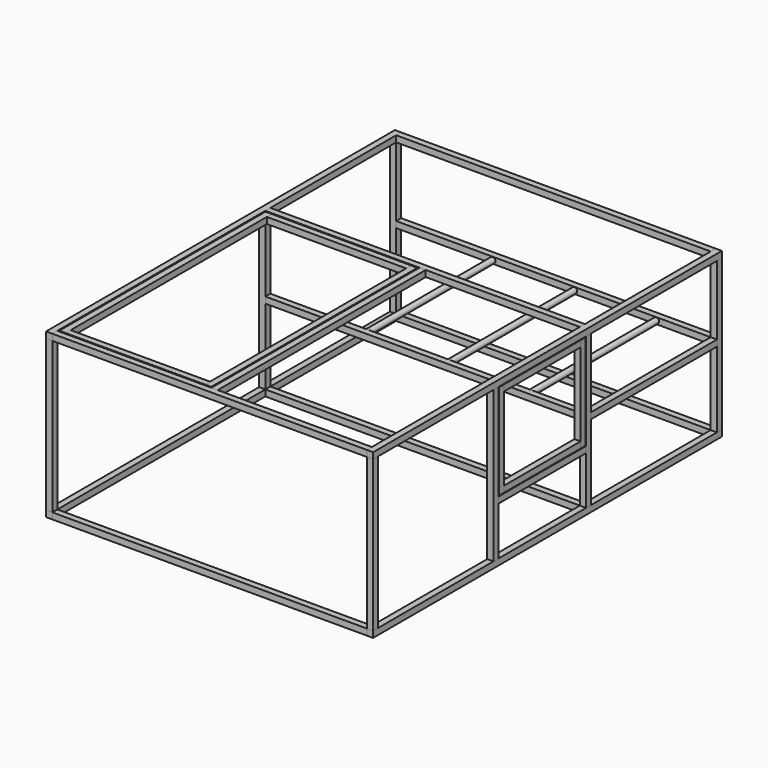
from build123d import *

# Parameters (mm, degrees)
F2_W      = 34.925
F2_H      = 34.925
F3_DEPTH  = 1219.2
F4_W      = 34.925
F4_H      = 34.925
F5_DEPTH  = 844.55
F6_W      = 34.925
F6_H      = 34.925
F7_DEPTH  = 1758.95
F8_R      = 15.875
F9_DEPTH  = 879.475
F10_W     = 34.925
F10_H     = 34.925
F11_DEPTH = 879.475
F12_W     = 34.925
F12_H     = 34.925
F13_DEPTH = 1454.15
F16_W     = 34.925
F16_H     = 34.925
F17_DEPTH = 1441.45
F18_W     = 34.925
F18_H     = 34.925
F19_DEPTH = 779.4625
F20_W     = 34.925
F20_H     = 34.925
F21_DEPTH = 844.55
F22_W     = 34.925
F22_H     = 34.925
F23_DEPTH = 612.775
F26_W     = 34.925
F26_H     = 34.925
F27_DEPTH = 533.4
F28_W     = 34.925
F28_H     = 34.925
F29_DEPTH = 536.575


with BuildPart() as f3:
    # F2 (on Front) → F3 (new body, symmetric)
    with BuildSketch(Plane.XZ):
        with Locations((896.9375, 17.4625)):
            Rectangle(F2_W, F2_H)
        with Locations((896.9375, 896.9375)):
            Rectangle(F2_W, F2_H)
        with Locations((-896.9375, 896.9375)):
            Rectangle(F2_W, F2_H)
        with Locations((-896.9375, 17.4625)):
            Rectangle(F2_W, F2_H)
    extrude(amount=F3_DEPTH, both=True)


with BuildPart() as f5:
    # F4 (on face) → F5 (new body, through all)
    with BuildSketch(Plane.XY.offset(34.925)):
        with Locations((-896.9375, -1201.7375)):
            Rectangle(F4_W, F4_H)
        with Locations((-896.9375, 1201.7375)):
            Rectangle(F4_W, F4_H)
        with Locations((896.9375, 1201.7375)):
            Rectangle(F4_W, F4_H)
        with Locations((896.9375, -1201.7375)):
            Rectangle(F4_W, F4_H)
        with Locations((-896.9375, 287.3375)):
            Rectangle(F4_W, F4_H)
        with Locations((896.9375, 287.3375)):
            Rectangle(F4_W, F4_H)
    extrude(amount=F5_DEPTH)


with BuildPart() as f7:
    # F6 (on face) → F7 (new body, through all)
    with BuildSketch(Plane.YZ.offset(-879.475)):
        with Locations((287.3375, 896.9375)):
            Rectangle(F6_W, F6_H)
        with Locations((-1201.7375, 896.9375)):
            Rectangle(F6_W, F6_H)
        with Locations((1201.7375, 896.9375)):
            Rectangle(F6_W, F6_H)
        with Locations((1201.7375, 17.4625)):
            Rectangle(F6_W, F6_H)
        with Locations((-1201.7375, 17.4625)):
            Rectangle(F6_W, F6_H)
        with Locations((287.3375, 17.4625)):
            Rectangle(F6_W, F6_H)
        with Locations((287.3375, 474.6625)):
            Rectangle(F6_W, F6_H)
        with Locations((1201.7375, 474.6625)):
            Rectangle(F6_W, F6_H)
    extrude(amount=F7_DEPTH)


with BuildPart() as f9:
    # F8 (on face) → F9 (new body, through all)
    with BuildSketch(Plane.XZ.offset(-1184.275)):
        with Locations((574.675, 474.6625)):
            Circle(F8_R)
        with Locations((117.475, 474.6625)):
            Circle(F8_R)
        with Locations((-339.725, 474.6625)):
            Circle(F8_R)
    extrude(amount=F9_DEPTH)


with BuildPart() as f11:
    # F10 (on face) → F11 (new body, through all)
    with BuildSketch(Plane.XZ.offset(-1184.275)):
        with Locations((896.9375, 474.6625)):
            Rectangle(F10_W, F10_H)
    extrude(amount=F11_DEPTH)


with BuildPart() as f13:
    # F12 (on face) → F13 (new body, through all)
    with BuildSketch(Plane(origin=(0, -1184.275, 0), x_dir=(-1, 0, 0), z_dir=(0, 1, 0))):
        with Locations((0, 896.9375)):
            Rectangle(F12_W, F12_H)
    extrude(amount=F13_DEPTH)


with BuildPart() as f17:
    # F16 (on face) → F17 (new body)
    with BuildSketch(Plane.XZ.offset(-263.525)):
        with Locations((-41.275, 896.9375)):
            Rectangle(F16_W, F16_H)
        with Locations((-855.6625, 896.9375)):
            Rectangle(F16_W, F16_H)
    extrude(amount=F17_DEPTH)


with BuildPart() as f19:
    # F18 (on face) → F19 (new body, through all)
    with BuildSketch(Plane(origin=(-58.7375, 0, 0), x_dir=(0, -1, 0), z_dir=(-1, 0, 0))):
        with Locations((-246.0625, 896.9375)):
            Rectangle(F18_W, F18_H)
        with Locations((1160.4625, 896.9375)):
            Rectangle(F18_W, F18_H)
    extrude(amount=F19_DEPTH)


with BuildPart() as f21:
    # F20 (on face) → F21 (new body, through all)
    with BuildSketch(Plane.XY.offset(34.925)):
        with Locations((896.9375, -360.3625)):
            Rectangle(F20_W, F20_H)
    extrude(amount=F21_DEPTH)


with BuildPart() as f23:
    # F22 (on face) → F23 (new body, through all)
    with BuildSketch(Plane.XZ.offset(-269.875)):
        with Locations((896.9375, 322.2625)):
            Rectangle(F22_W, F22_H)
    extrude(amount=F23_DEPTH)


with BuildPart() as f27:
    # F26 (on face) → F27 (new body)
    with BuildSketch(Plane(origin=(0, 0, 876.3), x_dir=(1, 0, 0), z_dir=(0, 0, -1))):
        with Locations((896.9375, 322.2625)):
            Rectangle(F26_W, F26_H)
        with Locations((896.9375, -249.2375)):
            Rectangle(F26_W, F26_H)
    extrude(amount=F27_DEPTH)


with BuildPart() as f29:
    # F28 (on face) → F29 (new body, through all)
    with BuildSketch(Plane.XZ.offset(-231.775)):
        with Locations((896.9375, 858.8375)):
            Rectangle(F28_W, F28_H)
        with Locations((896.9375, 360.3625)):
            Rectangle(F28_W, F28_H)
    extrude(amount=F29_DEPTH)


solid = Compound([f3.part, f5.part, f7.part, f9.part, f11.part, f13.part, f17.part, f19.part, f21.part, f23.part, f27.part, f29.part])
